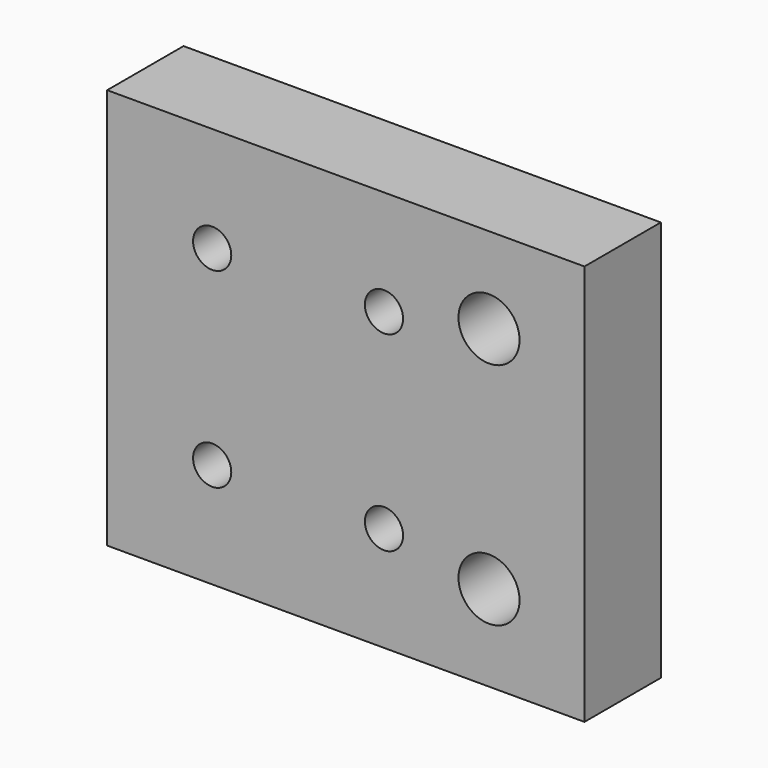
from build123d import *

# Parameters (mm, degrees)
F0_R     = 3.2
F2_DEPTH = 10
F1_R     = 2
F3_DEPTH = 10
F4_W     = 40
F4_H     = 9.5
F5_DEPTH = 0.8


with BuildPart() as f2:
    # F0 (on Front) → F2 (new body)
    with BuildSketch(Plane.XZ):
        Polygon((-20, -21), (20, -21), (30, -21), (30, 21), (20, 21), (-20, 21), align=None)
        with Locations((20, -12)):
            Circle(F0_R, mode=Mode.SUBTRACT)
        with Locations((20, 12)):
            Circle(F0_R, mode=Mode.SUBTRACT)
    extrude(amount=F2_DEPTH)

    # F1 (on Front) → F3 (cut, through all)
    with BuildSketch(Plane.XZ):
        with Locations((-9, 10)):
            Circle(F1_R)
        with Locations((-9, -10)):
            Circle(F1_R)
        with Locations((9, 10)):
            Circle(F1_R)
        with Locations((9, -10)):
            Circle(F1_R)
    extrude(amount=F3_DEPTH, mode=Mode.SUBTRACT)

    # F4 (on face) → F5 (join)
    with BuildSketch(Plane(origin=(0, 0, 0), x_dir=(-1, 0, 0), z_dir=(0, 1, 0))):
        Rectangle(F4_W, F4_H)
    extrude(amount=F5_DEPTH)


solid = f2.part
